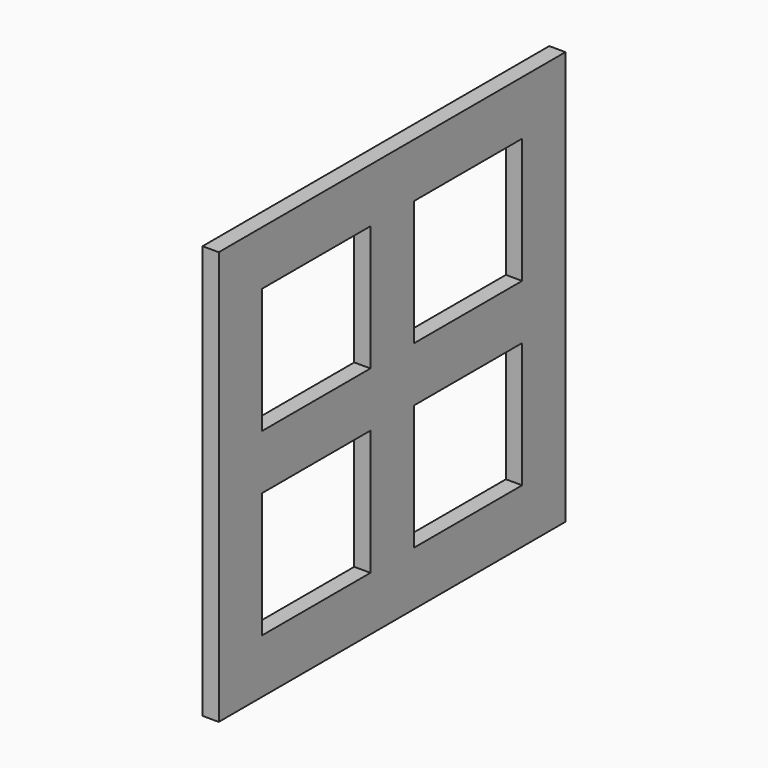
from build123d import *

# Parameters (mm, degrees)
F0_W     = 8
F0_H     = 7.633
F1_DEPTH = 0.3


with BuildPart() as f1:
    # F0 (on Right) → F1 (new body)
    with BuildSketch(Plane.YZ):
        with Locations((-11.22477, -15.256895)):
            Rectangle(F0_W, F0_H)
        Polygon((-14.22477, -14.751895), (-14.22477, -12.440395), (-11.72477, -12.440395), (-10.72477, -12.440395), (-8.22477, -12.440395), (-8.22477, -14.751895), (-8.22477, -15.761895), (-8.22477, -18.073395), (-10.72477, -18.073395), (-11.72477, -18.073395), (-14.22477, -18.073395), (-14.22477, -15.761895), align=None, mode=Mode.SUBTRACT)
        Polygon((-10.72477, -12.440395), (-11.72477, -12.440395), (-11.72477, -14.751895), (-14.22477, -14.751895), (-14.22477, -15.761895), (-11.72477, -15.761895), (-11.72477, -18.073395), (-10.72477, -18.073395), (-10.72477, -15.761895), (-8.22477, -15.761895), (-8.22477, -14.751895), (-10.72477, -14.751895), align=None)
    extrude(amount=F1_DEPTH)


solid = f1.part
